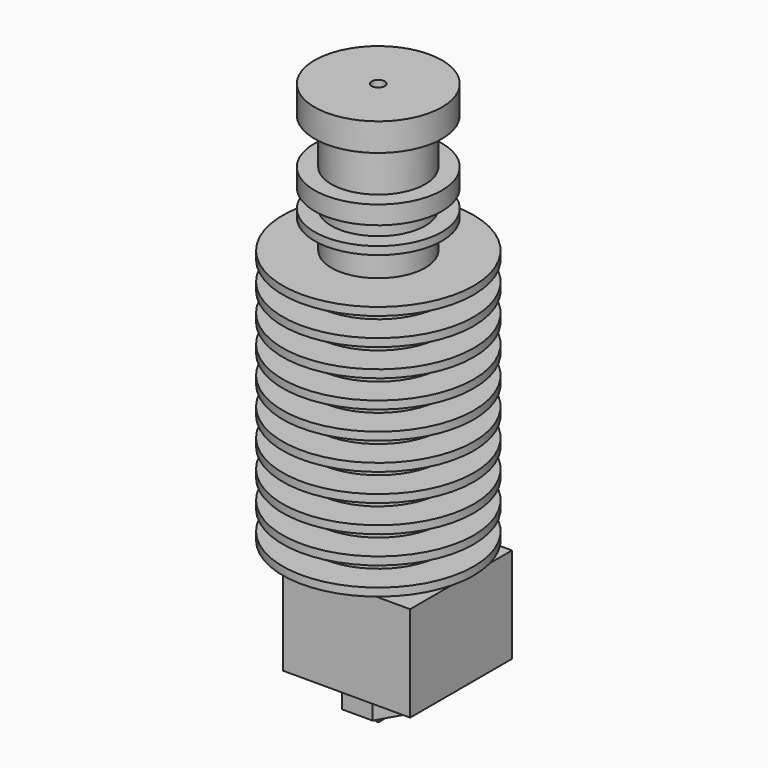
from build123d import *

# Parameters (mm, degrees)
SKETCH011_R   = 0.825
PAD011_DEPTH  = 65.5
PAD001_DEPTH  = 3
SKETCH002_W   = 16
SKETCH002_H   = 16
PAD002_DEPTH  = 12
SKETCH003_R   = 1.5
PAD003_DEPTH  = 3
SKETCH004_R   = 8
PAD004_DEPTH  = 32
SKETCH005_R   = 12
PAD005_DEPTH  = 1
ARRAY_Z_COUNT = 10
ARRAY_Z_PITCH = 3.45
SKETCH006_R   = 8
PAD006_DEPTH  = 2.3
SKETCH007_R   = 8
PAD007_DEPTH  = 1
SKETCH008_R   = 5.9
PAD008_DEPTH  = 2.3
SKETCH009_R   = 5.9
PAD009_DEPTH  = 5.7
SKETCH010_R   = 5.9
PAD010_DEPTH  = 3.7
SKETCH_R      = 8
PAD_DEPTH     = 3.5


with BuildPart() as pad011:
    # Sketch011 → Pad011 (new body)
    with BuildSketch(Plane.XY.offset(5)):
        Circle(SKETCH011_R)
    extrude(amount=PAD011_DEPTH)


with BuildPart() as cone:
    # Cone → Cone (revolve)
    with BuildSketch(Plane.XZ):
        Polygon((0, 0), (0.2, 0), (2.5, 2), (0, 2), align=None)
    revolve(axis=Axis((0, 0, 0), (0, 0, 1)))


with BuildPart() as pad001:
    # Sketch001 → Pad001 (new body)
    with BuildSketch(Plane.XY.offset(2)):
        Polygon((1.9, -3.290897), (3.8, 0), (1.9, 3.290897), (-1.9, 3.290897), (-3.8, 0), (-1.9, -3.290897), align=None)
    extrude(amount=PAD001_DEPTH)


with BuildPart() as pad002:
    # Sketch002 → Pad002 (new body)
    with BuildSketch(Plane.XY.offset(5)):
        with Locations((0, 3)):
            Rectangle(SKETCH002_W, SKETCH002_H)
    extrude(amount=PAD002_DEPTH)


with BuildPart() as pad003:
    # Sketch003 → Pad003 (new body)
    with BuildSketch(Plane.XY.offset(17)):
        Circle(SKETCH003_R)
    extrude(amount=PAD003_DEPTH)


with BuildPart() as pad004:
    # Sketch004 → Pad004 (new body)
    with BuildSketch(Plane.XY.offset(20)):
        Circle(SKETCH004_R)
    extrude(amount=PAD004_DEPTH)


with BuildPart() as array:
    # Sketch005 → Pad005 (new body)
    with BuildSketch(Plane.XY.offset(20)):
        Circle(SKETCH005_R)
    extrude(amount=PAD005_DEPTH)

    # Array Z: Array ×10


with BuildPart() as array_1:
    add(array.part)
    with Locations(*[(0, 0, i * ARRAY_Z_PITCH) for i in range(1, ARRAY_Z_COUNT)]):
        add(array.part)


with BuildPart() as top03:
    # Sketch006 → Pad006 (new body)
    with BuildSketch(Plane.XY.offset(59)):
        Circle(SKETCH006_R)
    extrude(amount=PAD006_DEPTH)


with BuildPart() as top05:
    # Sketch007 → Pad007 (new body)
    with BuildSketch(Plane.XY.offset(55.7)):
        Circle(SKETCH007_R)
    extrude(amount=PAD007_DEPTH)


with BuildPart() as top04:
    # Sketch008 → Pad008 (new body)
    with BuildSketch(Plane.XY.offset(56.7)):
        Circle(SKETCH008_R)
    extrude(amount=PAD008_DEPTH)


with BuildPart() as top02:
    # Sketch009 → Pad009 (new body)
    with BuildSketch(Plane.XY.offset(61.3)):
        Circle(SKETCH009_R)
    extrude(amount=PAD009_DEPTH)


with BuildPart() as top06:
    # Sketch010 → Pad010 (new body)
    with BuildSketch(Plane.XY.offset(52)):
        Circle(SKETCH010_R)
    extrude(amount=PAD010_DEPTH)


with BuildPart() as cut:
    # Sketch → Pad (new body)
    with BuildSketch(Plane.XY.offset(67)):
        Circle(SKETCH_R)
    extrude(amount=PAD_DEPTH)

    # Fusion: union Cone, Pad001, Pad002, Pad003, Pad004, Array, Top03, Top05, Top04, Top02, Top06
    add(cone.part)
    add(pad001.part)
    add(pad002.part)
    add(pad003.part)
    add(pad004.part)
    add(array_1.part)
    add(top03.part)
    add(top05.part)
    add(top04.part)
    add(top02.part)
    add(top06.part)

    # Cut: cut Pad011
    add(pad011.part, mode=Mode.SUBTRACT)


solid = cut.part
